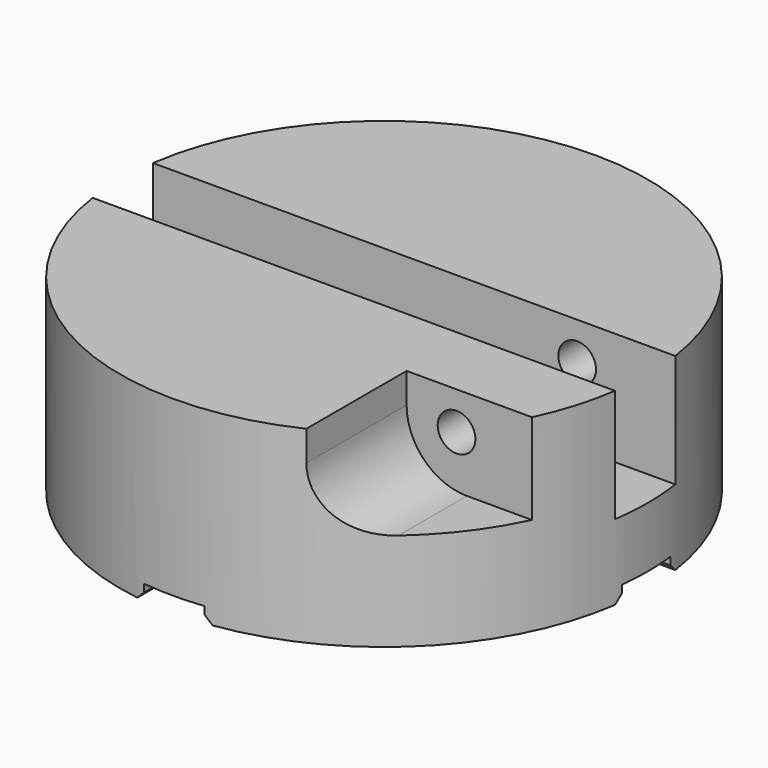
from build123d import *

# Parameters (mm, degrees)
F0_R      = 35
F1_DEPTH  = 25
F2_W      = 70
F2_H      = 10
F3_DEPTH  = 15
F5_W      = 8
F5_H      = 12
F6_DEPTH  = 25
F7_R      = 2.5
F8_DEPTH  = 50
F10_DEPTH = 2
F11_SIZE  = 1


with BuildPart() as f1:
    # F0 (on Top) → F1 (new body)
    with BuildSketch(Plane.XY):
        Circle(F0_R)
    extrude(amount=F1_DEPTH)

    # F2 (on face) → F3 (cut)
    with BuildSketch(Plane.XY.offset(25)):
        Rectangle(F2_W, F2_H)
    extrude(amount=-F3_DEPTH, mode=Mode.SUBTRACT)

    # F5 (on offset) → F6 (cut)
    with BuildSketch(Plane.XZ.offset(15)):
        Polygon((58, 13), (58, 33), (23, 33), (23, 21), (23, 13), align=None)
        with Locations((19, 27)):
            Rectangle(F5_W, F5_H)
        with BuildLine():
            Line((23, 13), (23, 21))
            Line((23, 21), (15, 21))
            ThreePointArc((15, 21), (17.3431457505, 15.3431457505), (23, 13))
        make_face()
    extrude(amount=F6_DEPTH, mode=Mode.SUBTRACT)

    # F7 (on face) → F8 (cut)
    with BuildSketch(Plane.XZ.offset(15)):
        with Locations((21.6227766017, 20)):
            Circle(F7_R)
    extrude(amount=-F8_DEPTH, mode=Mode.SUBTRACT)

    # F9 (on face) → F10 (cut)
    with BuildSketch(Plane(origin=(0, 0, 0), x_dir=(1, 0, 0), z_dir=(0, 0, -1))):
        with BuildLine():
            ThreePointArc((29.7321374946, -4), (29.9329594664, -2.0044793789), (30, 0))
            ThreePointArc((30, 0), (29.9329594664, 2.0044793789), (29.7321374946, 4))
            Line((29.7321374946, 4), (29.7321374946, -4))
        make_face()
        with BuildLine():
            ThreePointArc((29.7321374946, 4), (29.9329594664, 2.0044793789), (30, 0))
            ThreePointArc((30, 0), (29.9329594664, -2.0044793789), (29.7321374946, -4))
            Line((29.7321374946, -4), (35.7321374946, -4))
            Line((35.7321374946, -4), (35.7321374946, 4))
            Line((35.7321374946, 4), (29.7321374946, 4))
        make_face()
        with BuildLine():
            Line((29.7321374946, -4), (29.7321374946, 4))
            ThreePointArc((29.7321374946, 4), (21.2132034356, 21.2132034356), (4, 29.7321374946))
            Line((4, 29.7321374946), (-4, 29.7321374946))
            ThreePointArc((-4, 29.7321374946), (-21.2132034356, 21.2132034356), (-29.7321374946, 4))
            Line((-29.7321374946, 4), (-29.7321374946, -4))
            ThreePointArc((-29.7321374946, -4), (-21.2132034356, -21.2132034356), (-4, -29.7321374946))
            Line((-4, -29.7321374946), (4, -29.7321374946))
            ThreePointArc((4, -29.7321374946), (21.2132034356, -21.2132034356), (29.7321374946, -4))
        make_face()
        with BuildLine():
            Line((-4, 29.7321374946), (4, 29.7321374946))
            ThreePointArc((4, 29.7321374946), (0, 30), (-4, 29.7321374946))
        make_face()
        with BuildLine():
            ThreePointArc((-4, 29.7321374946), (0, 30), (4, 29.7321374946))
            Line((4, 29.7321374946), (4, 35.7321374946))
            Line((4, 35.7321374946), (-4, 35.7321374946))
            Line((-4, 35.7321374946), (-4, 29.7321374946))
        make_face()
        with BuildLine():
            Line((4, -35.7321374946), (4, -29.7321374946))
            ThreePointArc((4, -29.7321374946), (0, -30), (-4, -29.7321374946))
            Line((-4, -29.7321374946), (-4, -35.7321374946))
            Line((-4, -35.7321374946), (4, -35.7321374946))
        make_face()
        with BuildLine():
            ThreePointArc((-4, -29.7321374946), (0, -30), (4, -29.7321374946))
            Line((4, -29.7321374946), (-4, -29.7321374946))
        make_face()
        with BuildLine():
            Line((-29.7321374946, -4), (-29.7321374946, 4))
            ThreePointArc((-29.7321374946, 4), (-30, 0), (-29.7321374946, -4))
        make_face()
        with BuildLine():
            ThreePointArc((-29.7321374946, -4), (-30, 0), (-29.7321374946, 4))
            Line((-29.7321374946, 4), (-35.7321374946, 4))
            Line((-35.7321374946, 4), (-35.7321374946, -4))
            Line((-35.7321374946, -4), (-29.7321374946, -4))
        make_face()
    extrude(amount=-F10_DEPTH, mode=Mode.SUBTRACT)

    # F11
    f11_edges = [f1.edges().sort_by_distance(p)[0] for p in [
        (21.213203, -21.213203, 0),
        (-21.213203, -21.213203, 0),
        (21.213203, 21.213203, 0),
        (-21.213203, 21.213203, 0),
        (-32.251407, -4, 0),
        (-32.251407, 4, 0),
        (-4, -32.251407, 0),
        (4, -32.251407, 0),
        (32.251407, -4, 0),
        (32.251407, 4, 0),
        (4, 32.251407, 0),
        (-4, 32.251407, 0),
    ]]
    chamfer(f11_edges, length=F11_SIZE)


solid = f1.part
